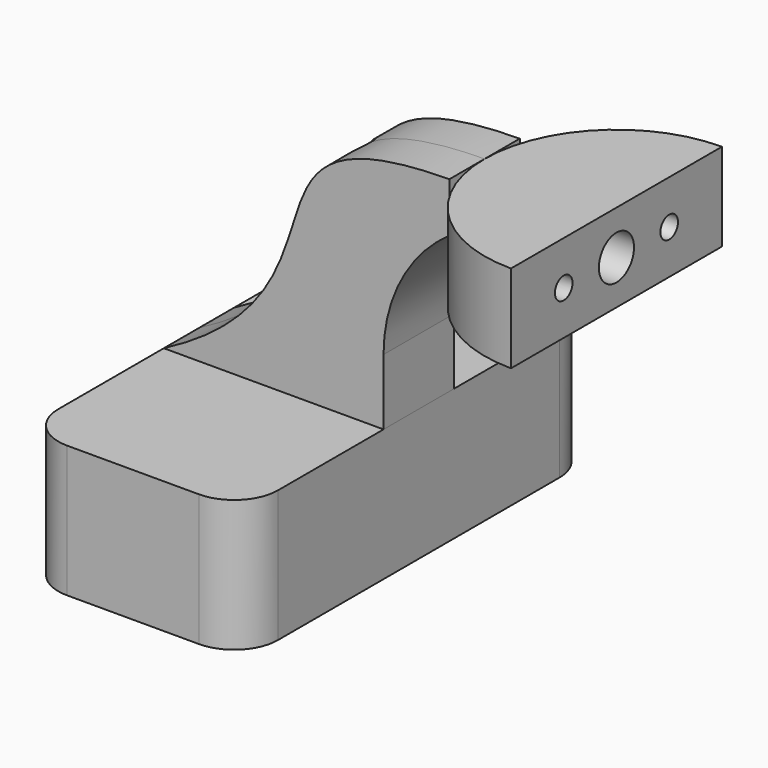
from build123d import *

# Parameters (mm, degrees)
F0_W          = 50
F0_H          = 30
F1_DEPTH      = 50
F2_DEPTH      = 10
F3_ANGLE_BACK = 90
F3_ANGLE      = 180
F4_R          = 10
F5_R          = 3
F6_DEPTH      = 17.5
F7_DEPTH      = 15
F8_R          = 5
F9_DEPTH      = 100


with BuildPart() as f1:
    # F0 (on Front) → F1 (new body, symmetric)
    with BuildSketch(Plane.XZ):
        Rectangle(F0_W, F0_H)
    extrude(amount=F1_DEPTH, both=True)

    # F4
    f4_edges = [f1.edges().sort_by_distance(p)[0] for p in [
        (-25, -50, 0),
        (25, -50, 0),
        (25, 50, 0),
        (-25, 50, 0),
    ]]
    fillet(f4_edges, radius=F4_R)

    # F5 (on Top) → F6 (cut, symmetric)
    with BuildSketch(Plane.XY):
        with Locations((-15, 40)):
            Circle(F5_R)
    extrude(amount=F6_DEPTH, both=True, mode=Mode.SUBTRACT)

    # F5 (on Top) → F7 (cut, symmetric)
    with BuildSketch(Plane.XY):
        with Locations((15, 40)):
            Circle(F5_R)
    extrude(amount=F7_DEPTH, both=True, mode=Mode.SUBTRACT)


with BuildPart() as f2:
    # F0 (on Front) → F2 (new body, symmetric)
    with BuildSketch(Plane.XZ):
        with BuildLine():
            Line((-25, 15), (25, 15))
            Line((25, 15), (25, 30))
            ThreePointArc((25, 30), (28.975815885, 46.201851746), (40, 58.7228132327))
            Line((40, 58.7228132327), (40, 70))
            add(Edge.make_bspline(
                [(-25, 15), (22.7879397571, 39.9372093379), (-14.2387868837, 69.4658607244), (40, 70)],
                knots=[0, 0, 0, 0, 85.1469318296, 85.1469318296, 85.1469318296, 85.1469318296], degree=3))
        make_face()
    extrude(amount=F2_DEPTH, both=True)


with BuildPart() as f3:
    # F0 (on Front) → F3 (revolve)
    with BuildSketch(Plane.XZ, mode=Mode.PRIVATE) as f3_sk:
        Polygon((70, 70), (40, 70), (40, 58.7228132327), (40, 50), (70, 50), align=None)
        with BuildLine():
            ThreePointArc((57.5, 60), (55, 57.5), (52.5, 60))
            ThreePointArc((52.5, 60), (55, 62.5), (57.5, 60))
        make_face(mode=Mode.SUBTRACT)
    revolve(f3_sk.sketch.rotate(Axis((70, 0, 60), (0, 0, 1)), -F3_ANGLE_BACK), axis=Axis((70, 0, 60), (0, 0, 1)), revolution_arc=F3_ANGLE)


with BuildPart() as f9_tool:
    # F8 (on Right) → F9 (new body, symmetric)
    with BuildSketch(Plane.YZ):
        with Locations((0, 60)):
            Circle(F8_R)
    extrude(amount=F9_DEPTH, both=True)


with BuildPart() as f2_1:
    add(f2.part)

    # F9: cut by f9_tool
    add(f9_tool.part, mode=Mode.SUBTRACT)


with BuildPart() as f3_1:
    add(f3.part)

    # F9: cut by f9_tool
    add(f9_tool.part, mode=Mode.SUBTRACT)


solid = Compound([f1.part, f2_1.part, f3_1.part])
